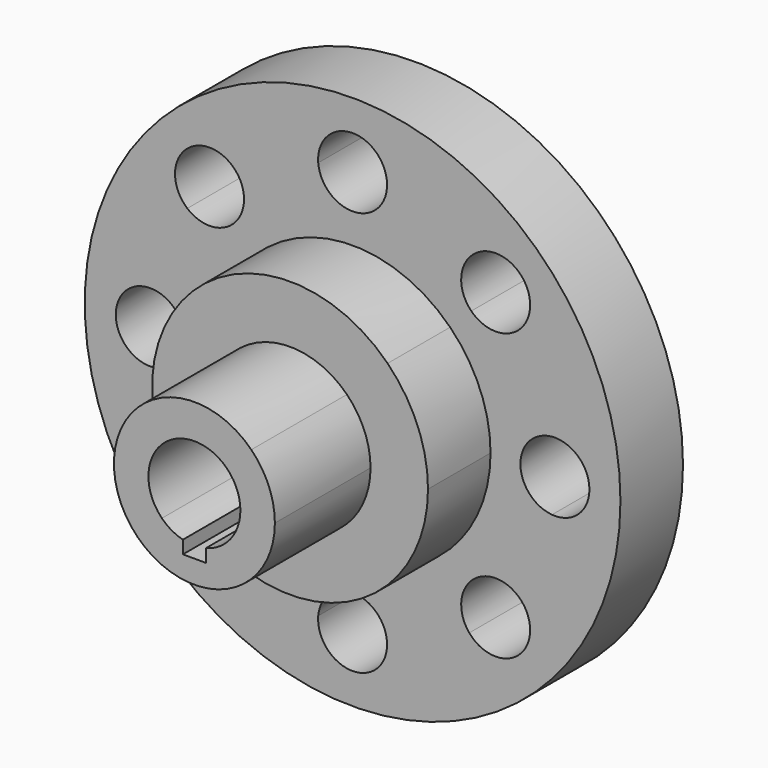
from build123d import *

# Parameters (mm, degrees)
F0_R     = 73.9775
F1_DEPTH = 21.59
F2_DEPTH = 21.59
F3_DEPTH = 43.18
F4_DEPTH = 76.2
F6_DEPTH = 25.4


with BuildPart() as f1:
    # F0 (on Front) → F1 (new body)
    with BuildSketch(Plane.XZ):
        Circle(F0_R)
        with BuildLine():
            ThreePointArc((9.4903436379, 55.0682102273), (21.3843502006, 51.6263882767), (32.2284185374, 45.6497912216))
            ThreePointArc((32.2284185374, 45.6497912216), (42.7795299647, 48.4605419914), (49.0381269327, 39.5131269327))
            ThreePointArc((49.0381269327, 39.5131269327), (48.1496005288, 35.4960448046), (45.6497912216, 32.2284185374))
            ThreePointArc((45.6497912216, 32.2284185374), (51.6263882767, 21.3843502006), (55.0682102273, 9.4903436379))
            ThreePointArc((55.0682102273, 9.4903436379), (62.3217904116, 7.0163353179), (65.405, 0))
            ThreePointArc((65.405, 0), (62.3217904116, -7.0163353179), (55.0682102273, -9.4903436379))
            ThreePointArc((55.0682102273, -9.4903436379), (51.6263882767, -21.3843502006), (45.6497912216, -32.2284185374))
            ThreePointArc((45.6497912216, -32.2284185374), (48.1496005288, -35.4960448046), (49.0381269327, -39.5131269327))
            ThreePointArc((49.0381269327, -39.5131269327), (42.7795299647, -48.4605419914), (32.2284185374, -45.6497912216))
            ThreePointArc((32.2284185374, -45.6497912216), (21.3843502006, -51.6263882767), (9.4903436379, -55.0682102273))
            ThreePointArc((9.4903436379, -55.0682102273), (9.5163319654, -55.4737354007), (9.525, -55.88))
            ThreePointArc((9.525, -55.88), (-0.4062645993, -65.3963319654), (-9.4903436379, -55.0682102273))
            ThreePointArc((-9.4903436379, -55.0682102273), (-21.3843502006, -51.6263882767), (-32.2284185374, -45.6497912216))
            ThreePointArc((-32.2284185374, -45.6497912216), (-46.2483190235, -46.2483190235), (-45.6497912216, -32.2284185374))
            ThreePointArc((-45.6497912216, -32.2284185374), (-51.6263882767, -21.3843502006), (-55.0682102273, -9.4903436379))
            ThreePointArc((-55.0682102273, -9.4903436379), (-65.405, 0), (-55.0682102273, 9.4903436379))
            ThreePointArc((-55.0682102273, 9.4903436379), (-51.6263882767, 21.3843502006), (-45.6497912216, 32.2284185374))
            ThreePointArc((-45.6497912216, 32.2284185374), (-46.2483190235, 46.2483190235), (-32.2284185374, 45.6497912216))
            ThreePointArc((-32.2284185374, 45.6497912216), (-21.3843502006, 51.6263882767), (-9.4903436379, 55.0682102273))
            ThreePointArc((-9.4903436379, 55.0682102273), (-0.4062645993, 65.3963319654), (9.525, 55.88))
            ThreePointArc((9.525, 55.88), (9.5163319654, 55.4737354007), (9.4903436379, 55.0682102273))
        make_face(mode=Mode.SUBTRACT)
    extrude(amount=F1_DEPTH)

    # F0 (on Front) → F2 (join)
    with BuildSketch(Plane.XZ):
        with BuildLine():
            ThreePointArc((-26.9407683632, -26.9407683632), (-38.1, 0), (-26.9407683632, 26.9407683632))
            Line((-26.9407683632, 26.9407683632), (-32.7779348419, 32.7779348419))
            ThreePointArc((-32.7779348419, 32.7779348419), (-39.1068623334, 29.9967949673), (-45.6497912216, 32.2284185374))
            ThreePointArc((-45.6497912216, 32.2284185374), (-51.6263882767, 21.3843502006), (-55.0682102273, 9.4903436379))
            ThreePointArc((-55.0682102273, 9.4903436379), (-48.8636646821, 6.4417904116), (-46.355, 0))
            ThreePointArc((-46.355, 0), (-48.8636646821, -6.4417904116), (-55.0682102273, -9.4903436379))
            ThreePointArc((-55.0682102273, -9.4903436379), (-51.6263882767, -21.3843502006), (-45.6497912216, -32.2284185374))
            ThreePointArc((-45.6497912216, -32.2284185374), (-39.1068623334, -29.9967949673), (-32.7779348419, -32.7779348419))
            Line((-32.7779348419, -32.7779348419), (-26.9407683632, -26.9407683632))
        make_face()
        with BuildLine():
            ThreePointArc((-26.9407683632, 26.9407683632), (0, 38.1), (26.9407683632, 26.9407683632))
            Line((26.9407683632, 26.9407683632), (32.7779348419, 32.7779348419))
            ThreePointArc((32.7779348419, 32.7779348419), (29.9967949673, 39.1068623334), (32.2284185374, 45.6497912216))
            ThreePointArc((32.2284185374, 45.6497912216), (21.3843502006, 51.6263882767), (9.4903436379, 55.0682102273))
            ThreePointArc((9.4903436379, 55.0682102273), (0, 46.355), (-9.4903436379, 55.0682102273))
            ThreePointArc((-9.4903436379, 55.0682102273), (-21.3843502006, 51.6263882767), (-32.2284185374, 45.6497912216))
            ThreePointArc((-32.2284185374, 45.6497912216), (-30.565711874, 42.7795299647), (-29.9881269327, 39.5131269327))
            ThreePointArc((-29.9881269327, 39.5131269327), (-30.7131743855, 35.8680672394), (-32.7779348419, 32.7779348419))
            Line((-32.7779348419, 32.7779348419), (-26.9407683632, 26.9407683632))
        make_face()
        with BuildLine():
            Line((32.7779348419, 32.7779348419), (26.9407683632, 26.9407683632))
            ThreePointArc((26.9407683632, 26.9407683632), (35.1998101887, 14.5802387731), (38.1, 0))
            ThreePointArc((38.1, 0), (35.1998101887, -14.5802387731), (26.9407683632, -26.9407683632))
            Line((26.9407683632, -26.9407683632), (32.7779348419, -32.7779348419))
            ThreePointArc((32.7779348419, -32.7779348419), (39.1068623334, -29.9967949673), (45.6497912216, -32.2284185374))
            ThreePointArc((45.6497912216, -32.2284185374), (51.6263882767, -21.3843502006), (55.0682102273, -9.4903436379))
            ThreePointArc((55.0682102273, -9.4903436379), (46.355, 0), (55.0682102273, 9.4903436379))
            ThreePointArc((55.0682102273, 9.4903436379), (51.6263882767, 21.3843502006), (45.6497912216, 32.2284185374))
            ThreePointArc((45.6497912216, 32.2284185374), (39.1068623334, 29.9967949673), (32.7779348419, 32.7779348419))
        make_face()
        with BuildLine():
            Line((32.7779348419, -32.7779348419), (26.9407683632, -26.9407683632))
            ThreePointArc((26.9407683632, -26.9407683632), (0, -38.1), (-26.9407683632, -26.9407683632))
            Line((-26.9407683632, -26.9407683632), (-32.7779348419, -32.7779348419))
            ThreePointArc((-32.7779348419, -32.7779348419), (-30.7131743855, -35.8680672394), (-29.9881269327, -39.5131269327))
            ThreePointArc((-29.9881269327, -39.5131269327), (-30.565711874, -42.7795299647), (-32.2284185374, -45.6497912216))
            ThreePointArc((-32.2284185374, -45.6497912216), (-21.3843502006, -51.6263882767), (-9.4903436379, -55.0682102273))
            ThreePointArc((-9.4903436379, -55.0682102273), (0, -46.355), (9.4903436379, -55.0682102273))
            ThreePointArc((9.4903436379, -55.0682102273), (21.3843502006, -51.6263882767), (32.2284185374, -45.6497912216))
            ThreePointArc((32.2284185374, -45.6497912216), (29.9967949673, -39.1068623334), (32.7779348419, -32.7779348419))
        make_face()
    extrude(amount=F2_DEPTH)

    # F0 (on Front) → F3 (join)
    with BuildSketch(Plane.XZ):
        with BuildLine():
            ThreePointArc((-15.7154482119, 15.7154482119), (0, 22.225), (15.7154482119, 15.7154482119))
            Line((15.7154482119, 15.7154482119), (26.9407683632, 26.9407683632))
            ThreePointArc((26.9407683632, 26.9407683632), (0, 38.1), (-26.9407683632, 26.9407683632))
            Line((-26.9407683632, 26.9407683632), (-15.7154482119, 15.7154482119))
        make_face()
        with BuildLine():
            Line((26.9407683632, 26.9407683632), (15.7154482119, 15.7154482119))
            ThreePointArc((15.7154482119, 15.7154482119), (20.5332226101, 8.5051392843), (22.225, 0))
            ThreePointArc((22.225, 0), (20.5332226101, -8.5051392843), (15.7154482119, -15.7154482119))
            Line((15.7154482119, -15.7154482119), (26.9407683632, -26.9407683632))
            ThreePointArc((26.9407683632, -26.9407683632), (35.1998101887, -14.5802387731), (38.1, 0))
            ThreePointArc((38.1, 0), (35.1998101887, 14.5802387731), (26.9407683632, 26.9407683632))
        make_face()
        with BuildLine():
            Line((26.9407683632, -26.9407683632), (15.7154482119, -15.7154482119))
            ThreePointArc((15.7154482119, -15.7154482119), (0, -22.225), (-15.7154482119, -15.7154482119))
            Line((-15.7154482119, -15.7154482119), (-26.9407683632, -26.9407683632))
            ThreePointArc((-26.9407683632, -26.9407683632), (0, -38.1), (26.9407683632, -26.9407683632))
        make_face()
        with BuildLine():
            ThreePointArc((-15.7154482119, -15.7154482119), (-22.225, 0), (-15.7154482119, 15.7154482119))
            Line((-15.7154482119, 15.7154482119), (-26.9407683632, 26.9407683632))
            ThreePointArc((-26.9407683632, 26.9407683632), (-38.1, 0), (-26.9407683632, -26.9407683632))
            Line((-26.9407683632, -26.9407683632), (-15.7154482119, -15.7154482119))
        make_face()
    extrude(amount=F3_DEPTH)

    # F0 (on Front) → F4 (join)
    with BuildSketch(Plane.XZ):
        with BuildLine():
            ThreePointArc((-8.9802561211, 8.9802561211), (0, 12.7), (8.9802561211, 8.9802561211))
            Line((8.9802561211, 8.9802561211), (15.7154482119, 15.7154482119))
            ThreePointArc((15.7154482119, 15.7154482119), (0, 22.225), (-15.7154482119, 15.7154482119))
            Line((-15.7154482119, 15.7154482119), (-8.9802561211, 8.9802561211))
        make_face()
        with BuildLine():
            ThreePointArc((8.9802561211, 8.9802561211), (11.7332700629, 4.860079591), (12.7, 0))
            ThreePointArc((12.7, 0), (11.7332700629, -4.860079591), (8.9802561211, -8.9802561211))
            Line((8.9802561211, -8.9802561211), (15.7154482119, -15.7154482119))
            ThreePointArc((15.7154482119, -15.7154482119), (20.5332226101, -8.5051392843), (22.225, 0))
            ThreePointArc((22.225, 0), (20.5332226101, 8.5051392843), (15.7154482119, 15.7154482119))
            Line((15.7154482119, 15.7154482119), (8.9802561211, 8.9802561211))
        make_face()
        with BuildLine():
            Line((15.7154482119, -15.7154482119), (8.9802561211, -8.9802561211))
            ThreePointArc((8.9802561211, -8.9802561211), (6.2997856733, -11.0273614464), (3.175, -12.2967221242))
            Line((3.175, -12.2967221242), (3.175, -15.875))
            Line((3.175, -15.875), (-3.175, -15.875))
            Line((-3.175, -15.875), (-3.175, -12.2967221242))
            ThreePointArc((-3.175, -12.2967221242), (-6.2997856733, -11.0273614464), (-8.9802561211, -8.9802561211))
            Line((-8.9802561211, -8.9802561211), (-15.7154482119, -15.7154482119))
            ThreePointArc((-15.7154482119, -15.7154482119), (0, -22.225), (15.7154482119, -15.7154482119))
        make_face()
        with BuildLine():
            ThreePointArc((-8.9802561211, -8.9802561211), (-12.7, 0), (-8.9802561211, 8.9802561211))
            Line((-8.9802561211, 8.9802561211), (-15.7154482119, 15.7154482119))
            ThreePointArc((-15.7154482119, 15.7154482119), (-22.225, 0), (-15.7154482119, -15.7154482119))
            Line((-15.7154482119, -15.7154482119), (-8.9802561211, -8.9802561211))
        make_face()
        with BuildLine():
            Line((3.175, -15.875), (3.175, -12.2967221242))
            ThreePointArc((3.175, -12.2967221242), (0, -12.7), (-3.175, -12.2967221242))
            Line((-3.175, -12.2967221242), (-3.175, -15.875))
            Line((-3.175, -15.875), (3.175, -15.875))
        make_face()
    extrude(amount=F4_DEPTH)

    # F5 (on face) → F6 (cut)
    with BuildSketch(Plane.XZ.offset(76.2)):
        with BuildLine():
            Line((-3.175, -15.875), (3.175, -15.875))
            Line((3.175, -15.875), (3.175, -12.2967221242))
            ThreePointArc((3.175, -12.2967221242), (0, -12.7), (-3.175, -12.2967221242))
            Line((-3.175, -12.2967221242), (-3.175, -15.875))
        make_face()
    extrude(amount=-F6_DEPTH, mode=Mode.SUBTRACT)


solid = f1.part
